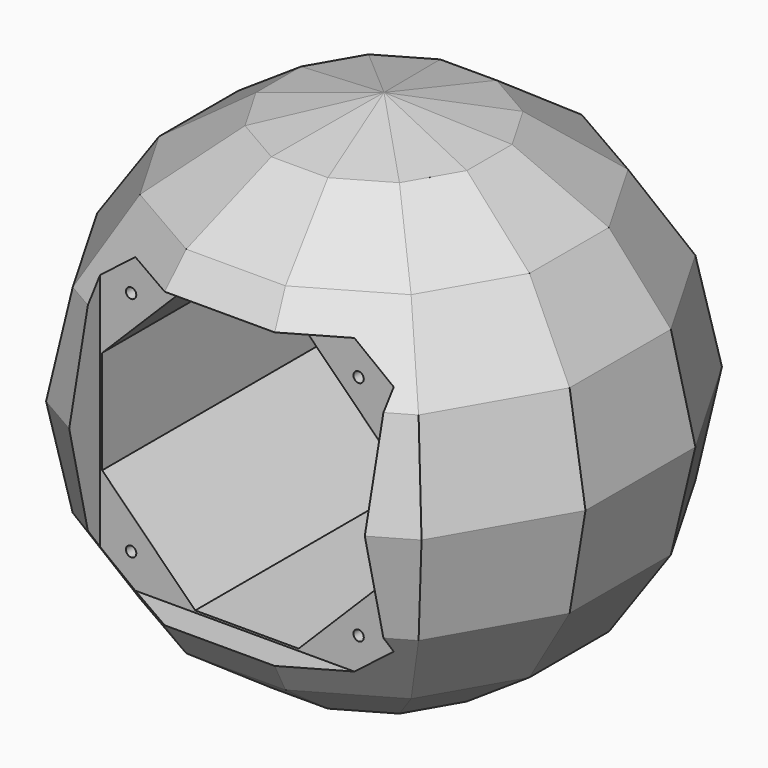
from build123d import *

# Parameters (mm, degrees)
F2_DEPTH  = 13.5
F2_TAPER  = -55
F4_DEPTH  = 19
F4_TAPER  = -33
F6_DEPTH  = 24
F6_TAPER  = -11.5
F8_DEPTH  = 24
F8_TAPER  = 11.5
F10_DEPTH = 19
F10_TAPER = 33
F12_DEPTH = 13.5
F12_TAPER = 55
F14_W     = 71
F14_H     = 71
F15_DEPTH = 20
F20_COUNT = 12
F20_ANGLE = 330
F21_R     = 1.25
F22_DEPTH = 15
F24_DEPTH = 65
F25_R     = 2
F26_DEPTH = 25


with BuildPart() as f2:
    # F1 (on Top) → F2 (new body)
    with BuildSketch(Plane.XY):
        Polygon((18.667295593, -18.667295593), (25.5, -6.832704407), (25.5, 6.832704407), (18.667295593, 18.667295593), (6.832704407, 25.5), (-6.832704407, 25.5), (-18.667295593, 18.667295593), (-25.5, 6.832704407), (-25.5, -6.832704407), (-18.667295593, -18.667295593), (-6.832704407, -25.5), (6.832704407, -25.5), align=None)
    extrude(amount=F2_DEPTH, taper=F2_TAPER)

    # F3 (on face) → F4 (join)
    with BuildSketch(Plane.XY.offset(13.5)):
        Polygon((11.9987643256, -44.779998091), (32.7812337655, -32.7812337655), (44.779998091, -11.9987643256), (44.779998091, 11.9987643256), (32.7812337655, 32.7812337655), (11.9987643256, 44.779998091), (-11.9987643256, 44.779998091), (-32.7812337655, 32.7812337655), (-44.779998091, 11.9987643256), (-44.779998091, -11.9987643256), (-32.7812337655, -32.7812337655), (-11.9987643256, -44.779998091), align=None)
    extrude(amount=F4_DEPTH, taper=F4_TAPER)

    # F5 (on face) → F6 (join)
    with BuildSketch(Plane.XY.offset(32.5)):
        Polygon((15.3049208885, -57.1187423618), (41.8138214733, -41.8138214733), (57.1187423618, -15.3049208885), (57.1187423618, 15.3049208885), (41.8138214733, 41.8138214733), (15.3049208885, 57.1187423618), (-15.3049208885, 57.1187423618), (-41.8138214733, 41.8138214733), (-57.1187423618, 15.3049208885), (-57.1187423618, -15.3049208885), (-41.8138214733, -41.8138214733), (-15.3049208885, -57.1187423618), align=None)
    extrude(amount=F6_DEPTH, taper=F6_TAPER)

    # F7 (on face) → F8 (join)
    with BuildSketch(Plane.XY.offset(56.5)):
        Polygon((-16.6132779924, -62.0015975479), (16.6132779924, -62.0015975479), (45.3883195555, -45.3883195555), (62.0015975479, -16.6132779924), (62.0015975479, 16.6132779924), (45.3883195555, 45.3883195555), (16.6132779924, 62.0015975479), (-16.6132779924, 62.0015975479), (-45.3883195555, 45.3883195555), (-62.0015975479, 16.6132779924), (-62.0015975479, -16.6132779924), (-45.3883195555, -45.3883195555), align=None)
    extrude(amount=F8_DEPTH, taper=F8_TAPER)

    # F9 (on face) → F10 (join)
    with BuildSketch(Plane.XY.offset(80.5)):
        Polygon((15.3049208885, -57.1187423618), (41.8138214733, -41.8138214733), (57.1187423618, -15.3049208885), (57.1187423618, 15.3049208885), (41.8138214733, 41.8138214733), (15.3049208885, 57.1187423618), (-15.3049208885, 57.1187423618), (-41.8138214733, 41.8138214733), (-57.1187423618, 15.3049208885), (-57.1187423618, -15.3049208885), (-41.8138214733, -41.8138214733), (-15.3049208885, -57.1187423618), align=None)
    extrude(amount=F10_DEPTH, taper=F10_TAPER)

    # F11 (on face) → F12 (join)
    with BuildSketch(Plane.XY.offset(99.5)):
        Polygon((-32.7812337655, -32.7812337655), (-11.9987643256, -44.779998091), (11.9987643256, -44.779998091), (32.7812337655, -32.7812337655), (44.779998091, -11.9987643256), (44.779998091, 11.9987643256), (32.7812337655, 32.7812337655), (11.9987643256, 44.779998091), (-11.9987643256, 44.779998091), (-32.7812337655, 32.7812337655), (-44.779998091, 11.9987643256), (-44.779998091, -11.9987643256), align=None)
    extrude(amount=F12_DEPTH, taper=F12_TAPER)

    # F14 (on offset) → F15 (cut)
    with BuildSketch(Plane.XZ.offset(62.05)):
        with Locations((0.5, 56.5)):
            Rectangle(F14_W, F14_H)
    extrude(amount=-F15_DEPTH, mode=Mode.SUBTRACT)


with BuildPart() as f19:
    # F18 (on 3pt) → F19 (new body, up to the next surface of F2)
    with BuildSketch(Plane(origin=(12.3175443523, -21.3346126427, 113.1882453996), x_dir=(0.9943304543, 0.0196958746, -0.1044941158), z_dir=(-0.1063341323, 0.1841761198, -0.9771244594))):
        Polygon((6.3859567143, -2.5862935324), (-5.5161138048, 4.1281770657), (-12.3877774228, -21.9585741432), align=None)
    extrude(until=Until.NEXT, target=f2.part)


with BuildPart() as f20_1:
    # F20: instance of F19
    add(f19.part.rotate(Axis((0, 0, 87.5846954226), (0, 0, 1)), 1 * F20_ANGLE / (F20_COUNT - 1)))


with BuildPart() as f20_2:
    # F20: instance of F19
    add(f19.part.rotate(Axis((0, 0, 87.5846954226), (0, 0, 1)), 2 * F20_ANGLE / (F20_COUNT - 1)))


with BuildPart() as f20_3:
    # F20: instance of F19
    add(f19.part.rotate(Axis((0, 0, 87.5846954226), (0, 0, 1)), 3 * F20_ANGLE / (F20_COUNT - 1)))


with BuildPart() as f20_4:
    # F20: instance of F19
    add(f19.part.rotate(Axis((0, 0, 87.5846954226), (0, 0, 1)), 4 * F20_ANGLE / (F20_COUNT - 1)))


with BuildPart() as f20_5:
    # F20: instance of F19
    add(f19.part.rotate(Axis((0, 0, 87.5846954226), (0, 0, 1)), 5 * F20_ANGLE / (F20_COUNT - 1)))


with BuildPart() as f20_6:
    # F20: instance of F19
    add(f19.part.rotate(Axis((0, 0, 87.5846954226), (0, 0, 1)), 6 * F20_ANGLE / (F20_COUNT - 1)))


with BuildPart() as f20_7:
    # F20: instance of F19
    add(f19.part.rotate(Axis((0, 0, 87.5846954226), (0, 0, 1)), 7 * F20_ANGLE / (F20_COUNT - 1)))


with BuildPart() as f20_8:
    # F20: instance of F19
    add(f19.part.rotate(Axis((0, 0, 87.5846954226), (0, 0, 1)), 8 * F20_ANGLE / (F20_COUNT - 1)))


with BuildPart() as f20_9:
    # F20: instance of F19
    add(f19.part.rotate(Axis((0, 0, 87.5846954226), (0, 0, 1)), 9 * F20_ANGLE / (F20_COUNT - 1)))


with BuildPart() as f20_10:
    # F20: instance of F19
    add(f19.part.rotate(Axis((0, 0, 87.5846954226), (0, 0, 1)), 10 * F20_ANGLE / (F20_COUNT - 1)))


with BuildPart() as f20_11:
    # F20: instance of F19
    add(f19.part.rotate(Axis((0, 0, 87.5846954226), (0, 0, 1)), 11 * F20_ANGLE / (F20_COUNT - 1)))


with BuildPart() as f2_1:
    add(f2.part)

    # F21 (on face) → F22 (cut)
    with BuildSketch(Plane.XZ.offset(42.05)):
        with Locations((-27.5, 84)):
            Circle(F21_R)
        with Locations((27.5, 84)):
            Circle(F21_R)
        with Locations((-27.5, 29)):
            Circle(F21_R)
        with Locations((27.5, 29)):
            Circle(F21_R)
    extrude(amount=-F22_DEPTH, mode=Mode.SUBTRACT)

    # F23 (on face) → F24 (cut)
    with BuildSketch(Plane.XZ.offset(42.05)):
        Polygon((-12, 91.5), (-34.5, 69), (-34.5, 44), (-12, 21.5), (13, 21.5), (35.5, 44), (35.5, 69), (13, 91.5), align=None)
    extrude(amount=-F24_DEPTH, mode=Mode.SUBTRACT)

    # F25 (on face) → F26 (cut)
    with BuildSketch(Plane(origin=(0, 8.3892431726, -11.981080915), x_dir=(1, 0, 0), z_dir=(0, 0.5735764364, -0.8191520443))):
        with Locations((0, -30.8883771294)):
            Circle(F25_R)
    extrude(amount=-F26_DEPTH, mode=Mode.SUBTRACT)


solid = Compound([f19.part, f20_1.part, f20_2.part, f20_3.part, f20_4.part, f20_5.part, f20_6.part, f20_7.part, f20_8.part, f20_9.part, f20_10.part, f20_11.part, f2_1.part])
